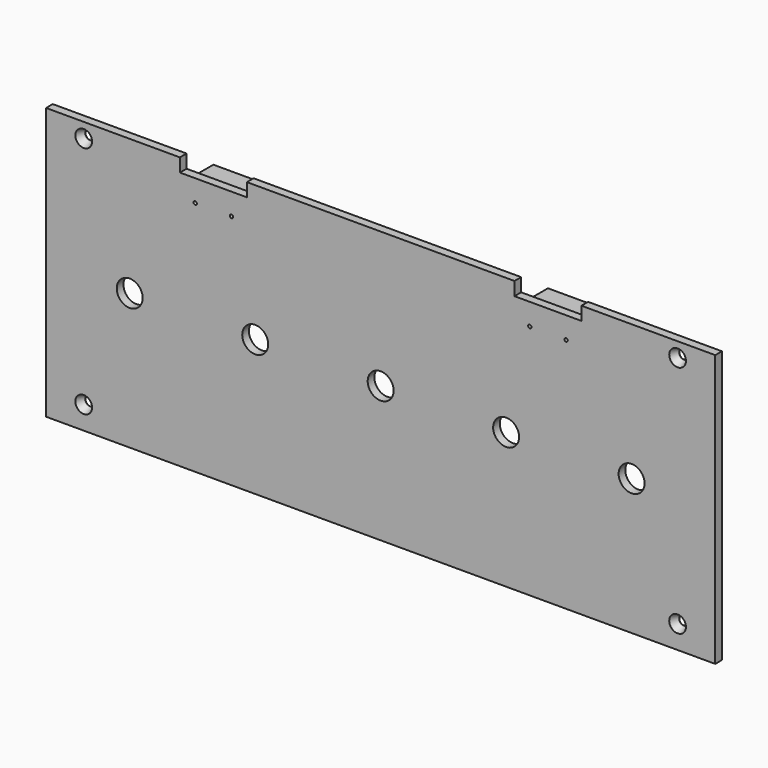
from build123d import *

# Parameters (mm, degrees)
F0_W           = 203.2
F0_H           = 82.55
F1_DEPTH       = 2.54
F3_D           = 7.874
F4_DEPTH       = 25.4
F2_W           = 20.32
F2_H           = 7.112
F5_DEPTH       = 12.7
F6_D           = 3.048
F6_CSINK_D     = 5.08
F6_CSINK_ANGLE = 49
F7_D           = 1.016
F7_DEPTH       = 10.16
F7_TIP         = 0.3052371945


with BuildPart() as f1:
    # F0 (on Front) → F1 (new body)
    with BuildSketch(Plane.XZ):
        Rectangle(F0_W, F0_H)
    extrude(amount=F1_DEPTH)

    # F3 (through all)
    with Locations(Plane.XZ.offset(2.54)):
        with Locations((-76.2, 0), (-38.1, 0), (0, 0), (38.1, 0), (76.2, 0)):
            Hole(F3_D / 2)

    # F2 (on face) → F4 (cut)
    with BuildSketch(Plane.XZ.offset(2.54)):
        Polygon((-50.8, 41.275), (-40.64, 41.275), (-40.64, 45.339), (-60.96, 45.339), (-60.96, 41.275), align=None)
        Polygon((40.64, 45.339), (40.64, 41.275), (50.8, 41.275), (60.96, 41.275), (60.96, 45.339), align=None)
        Polygon((-40.64, 37.211), (-40.64, 41.275), (-50.8, 41.275), (-60.96, 41.275), (-60.96, 37.211), align=None)
        Polygon((50.8, 41.275), (40.64, 41.275), (40.64, 37.211), (60.96, 37.211), (60.96, 41.275), align=None)
    extrude(amount=-F4_DEPTH, mode=Mode.SUBTRACT)

    # F2 (on face) → F5 (join)
    with BuildSketch(Plane.XZ.offset(2.54)):
        with Locations((-50.8, 30.607)):
            Rectangle(F2_W, F2_H)
        with Locations((50.8, 30.607)):
            Rectangle(F2_W, F2_H)
    extrude(amount=-F5_DEPTH)

    # F6 (through all)
    with Locations(Plane.XZ.offset(2.54)):
        with Locations((-90.17, 36.83), (-90.17, -34.29), (90.17, 36.83), (90.17, -34.29)):
            CounterSinkHole(F6_D / 2, F6_CSINK_D / 2, counter_sink_angle=F6_CSINK_ANGLE)

    # F7
    with Locations(Plane.XZ.offset(2.54)):
        with Locations((-56.3118, 30.607), (-45.2882, 30.607), (45.2882, 30.607), (56.3118, 30.607)):
            Hole(F7_D / 2, depth=F7_DEPTH)
            with Locations((0, 0, -(F7_DEPTH + F7_TIP / 2))):  # 118° drill point
                Cone(0, F7_D / 2, F7_TIP, mode=Mode.SUBTRACT)


solid = f1.part
